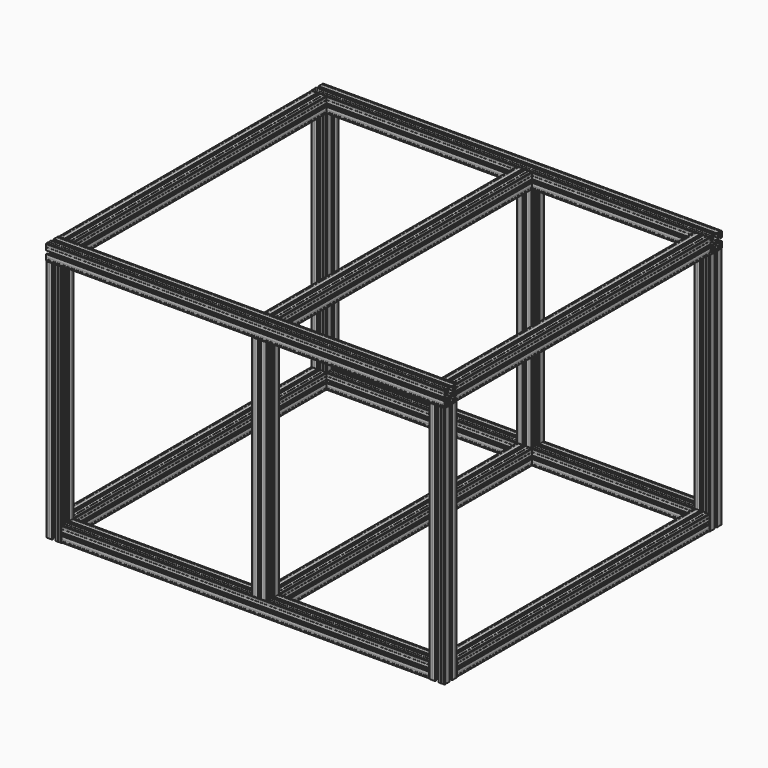
from build123d import *

# Parameters (mm, degrees)
F1_DEPTH  = 470
F5_DEPTH  = 710
F9_DEPTH  = 770
F13_DEPTH = 610
F19_DEPTH = 440


with BuildPart() as f1:
    # F0 (on Top) → F1 (new body)
    with BuildSketch(Plane.XY):
        Polygon((8.00025, 3.757359), (8.00025, 5), (5.00025, 5), (5.00025, 2), (6.242891, 2), align=None)
        Polygon((5.00025, 5), (5.00025, 8), (3.757609, 8), (2.00025, 6.242641), (2.00025, 5), align=None)
        Polygon((6.242891, 8), (5.00025, 8), (5.00025, 5), (8.00025, 5), (8.00025, 6.242641), align=None)
        Polygon((2.00025, 3.757359), (2.00025, 5), (0.30025, 5), (0.30025, 3.5), (0.00025, 3.5), (0.00025, 1), (1.00025, 0), (3.50025, 0), (3.50025, 0.3), (5.00025, 0.3), (5.00025, 2), (3.757609, 2), align=None)
        Polygon((5.00025, 2), (5.00025, 5), (2.00025, 5), (2.00025, 3.757359), (3.757609, 2), align=None)
        with BuildLine():
            Line((8.452543, 20.15), (9.7231081867, 15))
            Line((9.7231081867, 15), (12.50025, 15))
            ThreePointArc((12.50025, 15), (13.232483047, 16.767766953), (15.00025, 17.5))
            Line((15.00025, 17.5), (15.00025, 20.2771418133))
            Line((15.00025, 20.2771418133), (11.85025, 19.5))
            Line((11.85025, 19.5), (11.85025, 21.547707))
            Line((11.85025, 21.547707), (9.85025, 21.547707))
            Line((9.85025, 21.547707), (9.85025, 25))
            Line((9.85025, 25), (8.00025, 25))
            Line((8.00025, 25), (8.00025, 23.757359))
            Line((8.00025, 23.757359), (6.242891, 22))
            Line((6.242891, 22), (5.00025, 22))
            Line((5.00025, 22), (5.00025, 20.15))
            Line((5.00025, 20.15), (8.452543, 20.15))
        make_face()
        Polygon((0.30025, 25), (2.00025, 25), (2.00025, 26.242641), (3.757609, 28), (5.00025, 28), (5.00025, 29.7), (3.50025, 29.7), (3.50025, 30), (1.00025, 30), (0.00025, 29), (0.00025, 26.5), (0.30025, 26.5), align=None)
        Polygon((2.50025, 20.15), (5.00025, 20.15), (5.00025, 22), (3.757609, 22), (2.00025, 23.757359), (2.00025, 25), (0.30025, 25), (0.30025, 23.5), (0.00025, 23.5), (0.00025, 18.15), (2.50025, 18.15), align=None)
        with BuildLine():
            Line((12.50025, 15), (9.7231081867, 15))
            Line((9.7231081867, 15), (10.50025, 11.85))
            Line((10.50025, 11.85), (8.452543, 11.85))
            Line((8.452543, 11.85), (8.452543, 9.85))
            Line((8.452543, 9.85), (5.00025, 9.85))
            Line((5.00025, 9.85), (5.00025, 8))
            Line((5.00025, 8), (6.242891, 8))
            Line((6.242891, 8), (8.00025, 6.242641))
            Line((8.00025, 6.242641), (8.00025, 5))
            Line((8.00025, 5), (9.85025, 5))
            Line((9.85025, 5), (9.85025, 8.452293))
            Line((9.85025, 8.452293), (15.00025, 9.7228581867))
            Line((15.00025, 9.7228581867), (15.00025, 12.5))
            ThreePointArc((15.00025, 12.5), (13.232483047, 13.232233047), (12.50025, 15))
        make_face()
        Polygon((22.00025, 5), (20.15025, 5), (20.15025, 2.5), (18.15025, 2.5), (18.15025, 0), (23.50025, 0), (23.50025, 0.3), (25.00025, 0.3), (25.00025, 2), (23.757609, 2), (22.00025, 3.757359), align=None)
        with BuildLine():
            Line((15.00025, 20.2771418133), (15.00025, 17.5))
            ThreePointArc((15.00025, 17.5), (16.768016953, 16.767766953), (17.50025, 15))
            Line((17.50025, 15), (20.2773918133, 15))
            Line((20.2773918133, 15), (19.50025, 18.15))
            Line((19.50025, 18.15), (21.547957, 18.15))
            Line((21.547957, 18.15), (21.547957, 20.15))
            Line((21.547957, 20.15), (25.00025, 20.15))
            Line((25.00025, 20.15), (25.00025, 22))
            Line((25.00025, 22), (23.757609, 22))
            Line((23.757609, 22), (22.00025, 23.757359))
            Line((22.00025, 23.757359), (22.00025, 25))
            Line((22.00025, 25), (20.15025, 25))
            Line((20.15025, 25), (20.15025, 21.547707))
            Line((20.15025, 21.547707), (15.00025, 20.2771418133))
        make_face()
        Polygon((25.00025, 5), (25.00025, 8), (23.757609, 8), (22.00025, 6.242641), (22.00025, 5), align=None)
        with BuildLine():
            ThreePointArc((17.50025, 15), (16.768016953, 13.232233047), (15.00025, 12.5))
            Line((15.00025, 12.5), (15.00025, 9.7228581867))
            Line((15.00025, 9.7228581867), (18.15025, 10.5))
            Line((18.15025, 10.5), (18.15025, 8.452293))
            Line((18.15025, 8.452293), (20.15025, 8.452293))
            Line((20.15025, 8.452293), (20.15025, 5))
            Line((20.15025, 5), (22.00025, 5))
            Line((22.00025, 5), (22.00025, 6.242641))
            Line((22.00025, 6.242641), (23.757609, 8))
            Line((23.757609, 8), (25.00025, 8))
            Line((25.00025, 8), (25.00025, 9.85))
            Line((25.00025, 9.85), (21.547957, 9.85))
            Line((21.547957, 9.85), (20.2773918133, 15))
            Line((20.2773918133, 15), (17.50025, 15))
        make_face()
        Polygon((25.00025, 2), (25.00025, 5), (22.00025, 5), (22.00025, 3.757359), (23.757609, 2), align=None)
        Polygon((26.242891, 8), (25.00025, 8), (25.00025, 5), (28.00025, 5), (28.00025, 6.242641), align=None)
        Polygon((28.00025, 5), (25.00025, 5), (25.00025, 2), (26.242891, 2), (28.00025, 3.757359), align=None)
        Polygon((3.757609, 22), (5.00025, 22), (5.00025, 25), (2.00025, 25), (2.00025, 23.757359), align=None)
        Polygon((5.00025, 25), (5.00025, 22), (6.242891, 22), (8.00025, 23.757359), (8.00025, 25), align=None)
        Polygon((2.00025, 25), (5.00025, 25), (5.00025, 28), (3.757609, 28), (2.00025, 26.242641), align=None)
        with BuildLine():
            ThreePointArc((15.00025, 17.5), (13.232483047, 16.767766953), (12.50025, 15))
            Line((12.50025, 15), (15.00025, 15))
            Line((15.00025, 15), (15.00025, 17.5))
        make_face()
        with BuildLine():
            Line((15.00025, 15), (12.50025, 15))
            ThreePointArc((12.50025, 15), (13.232483047, 13.232233047), (15.00025, 12.5))
            Line((15.00025, 12.5), (15.00025, 15))
        make_face()
        with BuildLine():
            Line((15.00025, 17.5), (15.00025, 15))
            Line((15.00025, 15), (17.50025, 15))
            ThreePointArc((17.50025, 15), (16.768016953, 16.767766953), (15.00025, 17.5))
        make_face()
        with BuildLine():
            Line((17.50025, 15), (15.00025, 15))
            Line((15.00025, 15), (15.00025, 12.5))
            ThreePointArc((15.00025, 12.5), (16.768016953, 13.232233047), (17.50025, 15))
        make_face()
        Polygon((20.15025, 27.5), (20.15025, 25), (22.00025, 25), (22.00025, 26.242641), (23.757609, 28), (25.00025, 28), (25.00025, 29.7), (23.50025, 29.7), (23.50025, 30), (18.15025, 30), (18.15025, 27.5), align=None)
        Polygon((22.00025, 26.242641), (22.00025, 25), (25.00025, 25), (25.00025, 28), (23.757609, 28), align=None)
        Polygon((25.00025, 25), (22.00025, 25), (22.00025, 23.757359), (23.757609, 22), (25.00025, 22), align=None)
        Polygon((25.00025, 28), (25.00025, 25), (28.00025, 25), (28.00025, 26.242641), (26.242891, 28), align=None)
        Polygon((28.00025, 25), (25.00025, 25), (25.00025, 22), (26.242891, 22), (28.00025, 23.757359), align=None)
        Polygon((28.00025, 26.242641), (28.00025, 25), (29.70025, 25), (29.70025, 26.5), (30.00025, 26.5), (30.00025, 29), (29.00025, 30), (26.50025, 30), (26.50025, 29.7), (25.00025, 29.7), (25.00025, 28), (26.242891, 28), align=None)
        Polygon((25.00025, 22), (25.00025, 20.15), (27.50025, 20.15), (27.50025, 18.15), (30.00025, 18.15), (30.00025, 23.5), (29.70025, 23.5), (29.70025, 25), (28.00025, 25), (28.00025, 23.757359), (26.242891, 22), align=None)
        Polygon((8.00025, 26.242641), (8.00025, 25), (9.85025, 25), (9.85025, 27.5), (11.85025, 27.5), (11.85025, 30), (6.50025, 30), (6.50025, 29.7), (5.00025, 29.7), (5.00025, 28), (6.242891, 28), align=None)
        Polygon((5.00025, 28), (5.00025, 25), (8.00025, 25), (8.00025, 26.242641), (6.242891, 28), align=None)
        Polygon((27.50025, 9.85), (25.00025, 9.85), (25.00025, 8), (26.242891, 8), (28.00025, 6.242641), (28.00025, 5), (29.70025, 5), (29.70025, 6.5), (30.00025, 6.5), (30.00025, 11.85), (27.50025, 11.85), align=None)
        Polygon((29.70025, 5), (28.00025, 5), (28.00025, 3.757359), (26.242891, 2), (25.00025, 2), (25.00025, 0.3), (26.50025, 0.3), (26.50025, 0), (29.00025, 0), (30.00025, 1), (30.00025, 3.5), (29.70025, 3.5), align=None)
        Polygon((5.00025, 8), (5.00025, 9.85), (2.50025, 9.85), (2.50025, 11.85), (0.00025, 11.85), (0.00025, 6.5), (0.30025, 6.5), (0.30025, 5), (2.00025, 5), (2.00025, 6.242641), (3.757609, 8), align=None)
        Polygon((9.85025, 2.5), (9.85025, 5), (8.00025, 5), (8.00025, 3.757359), (6.242891, 2), (5.00025, 2), (5.00025, 0.3), (6.50025, 0.3), (6.50025, 0), (11.85025, 0), (11.85025, 2.5), align=None)
    extrude(amount=F1_DEPTH)


with BuildPart() as f2_1:
    # F2: copy of F1
    add(f1.part.moved(Location((0, 640, 0))))


with BuildPart() as f3_1:
    # F3: copy of F1
    add(f1.part.moved(Location((-740, 0, 0))))


with BuildPart() as f3_2:
    # F3: copy of F2_1
    add(f2_1.part.moved(Location((-740, 0, 0))))


with BuildPart() as f5:
    # F4 (on Right) → F5 (new body)
    with BuildSketch(Plane.YZ):
        with BuildLine():
            Line((8.452543, 20.45), (9.7231081867, 15.3))
            Line((9.7231081867, 15.3), (12.50025, 15.3))
            ThreePointArc((12.50025, 15.3), (13.232483047, 17.067766953), (15.00025, 17.8))
            Line((15.00025, 17.8), (15.00025, 20.5771418133))
            Line((15.00025, 20.5771418133), (11.85025, 19.8))
            Line((11.85025, 19.8), (11.85025, 21.847707))
            Line((11.85025, 21.847707), (9.85025, 21.847707))
            Line((9.85025, 21.847707), (9.85025, 25.3))
            Line((9.85025, 25.3), (8.00025, 25.3))
            Line((8.00025, 25.3), (8.00025, 24.057359))
            Line((8.00025, 24.057359), (6.242891, 22.3))
            Line((6.242891, 22.3), (5.00025, 22.3))
            Line((5.00025, 22.3), (5.00025, 20.45))
            Line((5.00025, 20.45), (8.452543, 20.45))
        make_face()
        with BuildLine():
            Line((12.50025, 15.3), (9.7231081867, 15.3))
            Line((9.7231081867, 15.3), (10.50025, 12.15))
            Line((10.50025, 12.15), (8.452543, 12.15))
            Line((8.452543, 12.15), (8.452543, 10.15))
            Line((8.452543, 10.15), (5.00025, 10.15))
            Line((5.00025, 10.15), (5.00025, 8.3))
            Line((5.00025, 8.3), (6.242891, 8.3))
            Line((6.242891, 8.3), (8.00025, 6.542641))
            Line((8.00025, 6.542641), (8.00025, 5.3))
            Line((8.00025, 5.3), (9.85025, 5.3))
            Line((9.85025, 5.3), (9.85025, 8.752293))
            Line((9.85025, 8.752293), (15.00025, 10.0228581867))
            Line((15.00025, 10.0228581867), (15.00025, 12.8))
            ThreePointArc((15.00025, 12.8), (13.232483047, 13.532233047), (12.50025, 15.3))
        make_face()
        with BuildLine():
            Line((15.00025, 20.5771418133), (15.00025, 17.8))
            ThreePointArc((15.00025, 17.8), (16.768016953, 17.067766953), (17.50025, 15.3))
            Line((17.50025, 15.3), (20.2773918133, 15.3))
            Line((20.2773918133, 15.3), (19.50025, 18.45))
            Line((19.50025, 18.45), (21.547957, 18.45))
            Line((21.547957, 18.45), (21.547957, 20.45))
            Line((21.547957, 20.45), (25.00025, 20.45))
            Line((25.00025, 20.45), (25.00025, 22.3))
            Line((25.00025, 22.3), (23.757609, 22.3))
            Line((23.757609, 22.3), (22.00025, 24.057359))
            Line((22.00025, 24.057359), (22.00025, 25.3))
            Line((22.00025, 25.3), (20.15025, 25.3))
            Line((20.15025, 25.3), (20.15025, 21.847707))
            Line((20.15025, 21.847707), (15.00025, 20.5771418133))
        make_face()
        with BuildLine():
            ThreePointArc((17.50025, 15.3), (16.768016953, 13.532233047), (15.00025, 12.8))
            Line((15.00025, 12.8), (15.00025, 10.0228581867))
            Line((15.00025, 10.0228581867), (18.15025, 10.8))
            Line((18.15025, 10.8), (18.15025, 8.752293))
            Line((18.15025, 8.752293), (20.15025, 8.752293))
            Line((20.15025, 8.752293), (20.15025, 5.3))
            Line((20.15025, 5.3), (22.00025, 5.3))
            Line((22.00025, 5.3), (22.00025, 6.542641))
            Line((22.00025, 6.542641), (23.757609, 8.3))
            Line((23.757609, 8.3), (25.00025, 8.3))
            Line((25.00025, 8.3), (25.00025, 10.15))
            Line((25.00025, 10.15), (21.547957, 10.15))
            Line((21.547957, 10.15), (20.2773918133, 15.3))
            Line((20.2773918133, 15.3), (17.50025, 15.3))
        make_face()
        Polygon((2.50025, 20.45), (5.00025, 20.45), (5.00025, 22.3), (3.757609, 22.3), (2.00025, 24.057359), (2.00025, 25.3), (0.30025, 25.3), (0.30025, 23.8), (0.00025, 23.8), (0.00025, 18.45), (2.50025, 18.45), align=None)
        Polygon((5.00025, 8.3), (5.00025, 10.15), (2.50025, 10.15), (2.50025, 12.15), (0.00025, 12.15), (0.00025, 6.8), (0.30025, 6.8), (0.30025, 5.3), (2.00025, 5.3), (2.00025, 6.542641), (3.757609, 8.3), align=None)
        Polygon((20.15025, 27.8), (20.15025, 25.3), (22.00025, 25.3), (22.00025, 26.542641), (23.757609, 28.3), (25.00025, 28.3), (25.00025, 30), (23.50025, 30), (23.50025, 30.3), (18.15025, 30.3), (18.15025, 27.8), align=None)
        Polygon((9.85025, 2.8), (9.85025, 5.3), (8.00025, 5.3), (8.00025, 4.057359), (6.242891, 2.3), (5.00025, 2.3), (5.00025, 0.6), (6.50025, 0.6), (6.50025, 0.3), (11.85025, 0.3), (11.85025, 2.8), align=None)
        Polygon((8.00025, 26.542641), (8.00025, 25.3), (9.85025, 25.3), (9.85025, 27.8), (11.85025, 27.8), (11.85025, 30.3), (6.50025, 30.3), (6.50025, 30), (5.00025, 30), (5.00025, 28.3), (6.242891, 28.3), align=None)
        Polygon((0.30025, 25.3), (2.00025, 25.3), (2.00025, 26.542641), (3.757609, 28.3), (5.00025, 28.3), (5.00025, 30), (3.50025, 30), (3.50025, 30.3), (1.00025, 30.3), (0.00025, 29.3), (0.00025, 26.8), (0.30025, 26.8), align=None)
        Polygon((27.50025, 10.15), (25.00025, 10.15), (25.00025, 8.3), (26.242891, 8.3), (28.00025, 6.542641), (28.00025, 5.3), (29.70025, 5.3), (29.70025, 6.8), (30.00025, 6.8), (30.00025, 12.15), (27.50025, 12.15), align=None)
        Polygon((22.00025, 5.3), (20.15025, 5.3), (20.15025, 2.8), (18.15025, 2.8), (18.15025, 0.3), (23.50025, 0.3), (23.50025, 0.6), (25.00025, 0.6), (25.00025, 2.3), (23.757609, 2.3), (22.00025, 4.057359), align=None)
        Polygon((2.00025, 4.057359), (2.00025, 5.3), (0.30025, 5.3), (0.30025, 3.8), (0.00025, 3.8), (0.00025, 1.3), (1.00025, 0.3), (3.50025, 0.3), (3.50025, 0.6), (5.00025, 0.6), (5.00025, 2.3), (3.757609, 2.3), align=None)
        Polygon((25.00025, 22.3), (25.00025, 20.45), (27.50025, 20.45), (27.50025, 18.45), (30.00025, 18.45), (30.00025, 23.8), (29.70025, 23.8), (29.70025, 25.3), (28.00025, 25.3), (28.00025, 24.057359), (26.242891, 22.3), align=None)
        Polygon((28.00025, 26.542641), (28.00025, 25.3), (29.70025, 25.3), (29.70025, 26.8), (30.00025, 26.8), (30.00025, 29.3), (29.00025, 30.3), (26.50025, 30.3), (26.50025, 30), (25.00025, 30), (25.00025, 28.3), (26.242891, 28.3), align=None)
        Polygon((29.70025, 5.3), (28.00025, 5.3), (28.00025, 4.057359), (26.242891, 2.3), (25.00025, 2.3), (25.00025, 0.6), (26.50025, 0.6), (26.50025, 0.3), (29.00025, 0.3), (30.00025, 1.3), (30.00025, 3.8), (29.70025, 3.8), align=None)
    extrude(amount=-F5_DEPTH)


with BuildPart() as f6_1:
    # F6: copy of F5
    add(f5.part.moved(Location((0, 640, 0))))


with BuildPart() as f9:
    # F8 (on offset) → F9 (new body)
    with BuildSketch(Plane.YZ.offset(30)):
        with BuildLine():
            Line((8.452543, 490.45), (9.7231081867, 485.3))
            Line((9.7231081867, 485.3), (12.50025, 485.3))
            ThreePointArc((12.50025, 485.3), (13.232483047, 487.067766953), (15.00025, 487.8))
            Line((15.00025, 487.8), (15.00025, 490.5771418133))
            Line((15.00025, 490.5771418133), (11.85025, 489.8))
            Line((11.85025, 489.8), (11.85025, 491.847707))
            Line((11.85025, 491.847707), (9.85025, 491.847707))
            Line((9.85025, 491.847707), (9.85025, 495.3))
            Line((9.85025, 495.3), (8.00025, 495.3))
            Line((8.00025, 495.3), (8.00025, 494.057359))
            Line((8.00025, 494.057359), (6.242891, 492.3))
            Line((6.242891, 492.3), (5.00025, 492.3))
            Line((5.00025, 492.3), (5.00025, 490.45))
            Line((5.00025, 490.45), (8.452543, 490.45))
        make_face()
        with BuildLine():
            Line((12.50025, 485.3), (9.7231081867, 485.3))
            Line((9.7231081867, 485.3), (10.50025, 482.15))
            Line((10.50025, 482.15), (8.452543, 482.15))
            Line((8.452543, 482.15), (8.452543, 480.15))
            Line((8.452543, 480.15), (5.00025, 480.15))
            Line((5.00025, 480.15), (5.00025, 478.3))
            Line((5.00025, 478.3), (6.242891, 478.3))
            Line((6.242891, 478.3), (8.00025, 476.542641))
            Line((8.00025, 476.542641), (8.00025, 475.3))
            Line((8.00025, 475.3), (9.85025, 475.3))
            Line((9.85025, 475.3), (9.85025, 478.752293))
            Line((9.85025, 478.752293), (15.00025, 480.0228581867))
            Line((15.00025, 480.0228581867), (15.00025, 482.8))
            ThreePointArc((15.00025, 482.8), (13.232483047, 483.532233047), (12.50025, 485.3))
        make_face()
        with BuildLine():
            Line((15.00025, 490.5771418133), (15.00025, 487.8))
            ThreePointArc((15.00025, 487.8), (16.768016953, 487.067766953), (17.50025, 485.3))
            Line((17.50025, 485.3), (20.2773918133, 485.3))
            Line((20.2773918133, 485.3), (19.50025, 488.45))
            Line((19.50025, 488.45), (21.547957, 488.45))
            Line((21.547957, 488.45), (21.547957, 490.45))
            Line((21.547957, 490.45), (25.00025, 490.45))
            Line((25.00025, 490.45), (25.00025, 492.3))
            Line((25.00025, 492.3), (23.757609, 492.3))
            Line((23.757609, 492.3), (22.00025, 494.057359))
            Line((22.00025, 494.057359), (22.00025, 495.3))
            Line((22.00025, 495.3), (20.15025, 495.3))
            Line((20.15025, 495.3), (20.15025, 491.847707))
            Line((20.15025, 491.847707), (15.00025, 490.5771418133))
        make_face()
        with BuildLine():
            ThreePointArc((17.50025, 485.3), (16.768016953, 483.532233047), (15.00025, 482.8))
            Line((15.00025, 482.8), (15.00025, 480.0228581867))
            Line((15.00025, 480.0228581867), (18.15025, 480.8))
            Line((18.15025, 480.8), (18.15025, 478.752293))
            Line((18.15025, 478.752293), (20.15025, 478.752293))
            Line((20.15025, 478.752293), (20.15025, 475.3))
            Line((20.15025, 475.3), (22.00025, 475.3))
            Line((22.00025, 475.3), (22.00025, 476.542641))
            Line((22.00025, 476.542641), (23.757609, 478.3))
            Line((23.757609, 478.3), (25.00025, 478.3))
            Line((25.00025, 478.3), (25.00025, 480.15))
            Line((25.00025, 480.15), (21.547957, 480.15))
            Line((21.547957, 480.15), (20.2773918133, 485.3))
            Line((20.2773918133, 485.3), (17.50025, 485.3))
        make_face()
        Polygon((2.50025, 490.45), (5.00025, 490.45), (5.00025, 492.3), (3.757609, 492.3), (2.00025, 494.057359), (2.00025, 495.3), (0.30025, 495.3), (0.30025, 493.8), (0.00025, 493.8), (0.00025, 488.45), (2.50025, 488.45), align=None)
        Polygon((5.00025, 478.3), (5.00025, 480.15), (2.50025, 480.15), (2.50025, 482.15), (0.00025, 482.15), (0.00025, 476.8), (0.30025, 476.8), (0.30025, 475.3), (2.00025, 475.3), (2.00025, 476.542641), (3.757609, 478.3), align=None)
        Polygon((20.15025, 497.8), (20.15025, 495.3), (22.00025, 495.3), (22.00025, 496.542641), (23.757609, 498.3), (25.00025, 498.3), (25.00025, 500), (23.50025, 500), (23.50025, 500.3), (18.15025, 500.3), (18.15025, 497.8), align=None)
        Polygon((9.85025, 472.8), (9.85025, 475.3), (8.00025, 475.3), (8.00025, 474.057359), (6.242891, 472.3), (5.00025, 472.3), (5.00025, 470.6), (6.50025, 470.6), (6.50025, 470.3), (11.85025, 470.3), (11.85025, 472.8), align=None)
        Polygon((8.00025, 496.542641), (8.00025, 495.3), (9.85025, 495.3), (9.85025, 497.8), (11.85025, 497.8), (11.85025, 500.3), (6.50025, 500.3), (6.50025, 500), (5.00025, 500), (5.00025, 498.3), (6.242891, 498.3), align=None)
        Polygon((0.30025, 495.3), (2.00025, 495.3), (2.00025, 496.542641), (3.757609, 498.3), (5.00025, 498.3), (5.00025, 500), (3.50025, 500), (3.50025, 500.3), (1.00025, 500.3), (0.00025, 499.3), (0.00025, 496.8), (0.30025, 496.8), align=None)
        Polygon((27.50025, 480.15), (25.00025, 480.15), (25.00025, 478.3), (26.242891, 478.3), (28.00025, 476.542641), (28.00025, 475.3), (29.70025, 475.3), (29.70025, 476.8), (30.00025, 476.8), (30.00025, 482.15), (27.50025, 482.15), align=None)
        Polygon((22.00025, 475.3), (20.15025, 475.3), (20.15025, 472.8), (18.15025, 472.8), (18.15025, 470.3), (23.50025, 470.3), (23.50025, 470.6), (25.00025, 470.6), (25.00025, 472.3), (23.757609, 472.3), (22.00025, 474.057359), align=None)
        Polygon((2.00025, 474.057359), (2.00025, 475.3), (0.30025, 475.3), (0.30025, 473.8), (0.00025, 473.8), (0.00025, 471.3), (1.00025, 470.3), (3.50025, 470.3), (3.50025, 470.6), (5.00025, 470.6), (5.00025, 472.3), (3.757609, 472.3), align=None)
        Polygon((25.00025, 492.3), (25.00025, 490.45), (27.50025, 490.45), (27.50025, 488.45), (30.00025, 488.45), (30.00025, 493.8), (29.70025, 493.8), (29.70025, 495.3), (28.00025, 495.3), (28.00025, 494.057359), (26.242891, 492.3), align=None)
        Polygon((28.00025, 496.542641), (28.00025, 495.3), (29.70025, 495.3), (29.70025, 496.8), (30.00025, 496.8), (30.00025, 499.3), (29.00025, 500.3), (26.50025, 500.3), (26.50025, 500), (25.00025, 500), (25.00025, 498.3), (26.242891, 498.3), align=None)
        Polygon((29.70025, 475.3), (28.00025, 475.3), (28.00025, 474.057359), (26.242891, 472.3), (25.00025, 472.3), (25.00025, 470.6), (26.50025, 470.6), (26.50025, 470.3), (29.00025, 470.3), (30.00025, 471.3), (30.00025, 473.8), (29.70025, 473.8), align=None)
    extrude(amount=-F9_DEPTH)


with BuildPart() as f10_1:
    # F10: copy of F9
    add(f9.part.moved(Location((0, 640, 0))))


with BuildPart() as f13:
    # F12 (on offset) → F13 (new body)
    with BuildSketch(Plane.XZ.offset(-30)):
        with BuildLine():
            Line((8.452543, 20.45), (9.7231081867, 15.3))
            Line((9.7231081867, 15.3), (12.50025, 15.3))
            ThreePointArc((12.50025, 15.3), (13.232483047, 17.067766953), (15.00025, 17.8))
            Line((15.00025, 17.8), (15.00025, 20.5771418133))
            Line((15.00025, 20.5771418133), (11.85025, 19.8))
            Line((11.85025, 19.8), (11.85025, 21.847707))
            Line((11.85025, 21.847707), (9.85025, 21.847707))
            Line((9.85025, 21.847707), (9.85025, 25.3))
            Line((9.85025, 25.3), (8.00025, 25.3))
            Line((8.00025, 25.3), (8.00025, 24.057359))
            Line((8.00025, 24.057359), (6.242891, 22.3))
            Line((6.242891, 22.3), (5.00025, 22.3))
            Line((5.00025, 22.3), (5.00025, 20.45))
            Line((5.00025, 20.45), (8.452543, 20.45))
        make_face()
        with BuildLine():
            Line((12.50025, 15.3), (9.7231081867, 15.3))
            Line((9.7231081867, 15.3), (10.50025, 12.15))
            Line((10.50025, 12.15), (8.452543, 12.15))
            Line((8.452543, 12.15), (8.452543, 10.15))
            Line((8.452543, 10.15), (5.00025, 10.15))
            Line((5.00025, 10.15), (5.00025, 8.3))
            Line((5.00025, 8.3), (6.242891, 8.3))
            Line((6.242891, 8.3), (8.00025, 6.542641))
            Line((8.00025, 6.542641), (8.00025, 5.3))
            Line((8.00025, 5.3), (9.85025, 5.3))
            Line((9.85025, 5.3), (9.85025, 8.752293))
            Line((9.85025, 8.752293), (15.00025, 10.0228581867))
            Line((15.00025, 10.0228581867), (15.00025, 12.8))
            ThreePointArc((15.00025, 12.8), (13.232483047, 13.532233047), (12.50025, 15.3))
        make_face()
        with BuildLine():
            Line((15.00025, 20.5771418133), (15.00025, 17.8))
            ThreePointArc((15.00025, 17.8), (16.768016953, 17.067766953), (17.50025, 15.3))
            Line((17.50025, 15.3), (20.2773918133, 15.3))
            Line((20.2773918133, 15.3), (19.50025, 18.45))
            Line((19.50025, 18.45), (21.547957, 18.45))
            Line((21.547957, 18.45), (21.547957, 20.45))
            Line((21.547957, 20.45), (25.00025, 20.45))
            Line((25.00025, 20.45), (25.00025, 22.3))
            Line((25.00025, 22.3), (23.757609, 22.3))
            Line((23.757609, 22.3), (22.00025, 24.057359))
            Line((22.00025, 24.057359), (22.00025, 25.3))
            Line((22.00025, 25.3), (20.15025, 25.3))
            Line((20.15025, 25.3), (20.15025, 21.847707))
            Line((20.15025, 21.847707), (15.00025, 20.5771418133))
        make_face()
        with BuildLine():
            ThreePointArc((17.50025, 15.3), (16.768016953, 13.532233047), (15.00025, 12.8))
            Line((15.00025, 12.8), (15.00025, 10.0228581867))
            Line((15.00025, 10.0228581867), (18.15025, 10.8))
            Line((18.15025, 10.8), (18.15025, 8.752293))
            Line((18.15025, 8.752293), (20.15025, 8.752293))
            Line((20.15025, 8.752293), (20.15025, 5.3))
            Line((20.15025, 5.3), (22.00025, 5.3))
            Line((22.00025, 5.3), (22.00025, 6.542641))
            Line((22.00025, 6.542641), (23.757609, 8.3))
            Line((23.757609, 8.3), (25.00025, 8.3))
            Line((25.00025, 8.3), (25.00025, 10.15))
            Line((25.00025, 10.15), (21.547957, 10.15))
            Line((21.547957, 10.15), (20.2773918133, 15.3))
            Line((20.2773918133, 15.3), (17.50025, 15.3))
        make_face()
        Polygon((2.50025, 20.45), (5.00025, 20.45), (5.00025, 22.3), (3.757609, 22.3), (2.00025, 24.057359), (2.00025, 25.3), (0.30025, 25.3), (0.30025, 23.8), (0.00025, 23.8), (0.00025, 18.45), (2.50025, 18.45), align=None)
        Polygon((5.00025, 8.3), (5.00025, 10.15), (2.50025, 10.15), (2.50025, 12.15), (0.00025, 12.15), (0.00025, 6.8), (0.30025, 6.8), (0.30025, 5.3), (2.00025, 5.3), (2.00025, 6.542641), (3.757609, 8.3), align=None)
        Polygon((20.15025, 27.8), (20.15025, 25.3), (22.00025, 25.3), (22.00025, 26.542641), (23.757609, 28.3), (25.00025, 28.3), (25.00025, 30), (23.50025, 30), (23.50025, 30.3), (18.15025, 30.3), (18.15025, 27.8), align=None)
        Polygon((9.85025, 2.8), (9.85025, 5.3), (8.00025, 5.3), (8.00025, 4.057359), (6.242891, 2.3), (5.00025, 2.3), (5.00025, 0.6), (6.50025, 0.6), (6.50025, 0.3), (11.85025, 0.3), (11.85025, 2.8), align=None)
        Polygon((8.00025, 26.542641), (8.00025, 25.3), (9.85025, 25.3), (9.85025, 27.8), (11.85025, 27.8), (11.85025, 30.3), (6.50025, 30.3), (6.50025, 30), (5.00025, 30), (5.00025, 28.3), (6.242891, 28.3), align=None)
        Polygon((0.30025, 25.3), (2.00025, 25.3), (2.00025, 26.542641), (3.757609, 28.3), (5.00025, 28.3), (5.00025, 30), (3.50025, 30), (3.50025, 30.3), (1.00025, 30.3), (0.00025, 29.3), (0.00025, 26.8), (0.30025, 26.8), align=None)
        Polygon((27.50025, 10.15), (25.00025, 10.15), (25.00025, 8.3), (26.242891, 8.3), (28.00025, 6.542641), (28.00025, 5.3), (29.70025, 5.3), (29.70025, 6.8), (30.00025, 6.8), (30.00025, 12.15), (27.50025, 12.15), align=None)
        Polygon((22.00025, 5.3), (20.15025, 5.3), (20.15025, 2.8), (18.15025, 2.8), (18.15025, 0.3), (23.50025, 0.3), (23.50025, 0.6), (25.00025, 0.6), (25.00025, 2.3), (23.757609, 2.3), (22.00025, 4.057359), align=None)
        Polygon((2.00025, 4.057359), (2.00025, 5.3), (0.30025, 5.3), (0.30025, 3.8), (0.00025, 3.8), (0.00025, 1.3), (1.00025, 0.3), (3.50025, 0.3), (3.50025, 0.6), (5.00025, 0.6), (5.00025, 2.3), (3.757609, 2.3), align=None)
        Polygon((25.00025, 22.3), (25.00025, 20.45), (27.50025, 20.45), (27.50025, 18.45), (30.00025, 18.45), (30.00025, 23.8), (29.70025, 23.8), (29.70025, 25.3), (28.00025, 25.3), (28.00025, 24.057359), (26.242891, 22.3), align=None)
        Polygon((28.00025, 26.542641), (28.00025, 25.3), (29.70025, 25.3), (29.70025, 26.8), (30.00025, 26.8), (30.00025, 29.3), (29.00025, 30.3), (26.50025, 30.3), (26.50025, 30), (25.00025, 30), (25.00025, 28.3), (26.242891, 28.3), align=None)
        Polygon((29.70025, 5.3), (28.00025, 5.3), (28.00025, 4.057359), (26.242891, 2.3), (25.00025, 2.3), (25.00025, 0.6), (26.50025, 0.6), (26.50025, 0.3), (29.00025, 0.3), (30.00025, 1.3), (30.00025, 3.8), (29.70025, 3.8), align=None)
    extrude(amount=-F13_DEPTH)


with BuildPart() as f14_1:
    # F14: copy of F13
    add(f13.part.moved(Location((0, 0, 470))))


with BuildPart() as f15_1:
    # F15: copy of F13
    add(f13.part.moved(Location((-740, 0, 0))))


with BuildPart() as f15_2:
    # F15: copy of F14_1
    add(f14_1.part.moved(Location((-740, 0, 0))))


with BuildPart() as f16_1:
    # F16: copy of F13
    add(f13.part.moved(Location((-343, 0, 0))))


with BuildPart() as f16_2:
    # F16: copy of F14_1
    add(f14_1.part.moved(Location((-343, 0, 0))))


with BuildPart() as f19:
    # F18 (on offset) → F19 (new body)
    with BuildSketch(Plane.XY.offset(30)):
        with BuildLine():
            Line((-334.547457, 20.45), (-333.2768918133, 15.3))
            Line((-333.2768918133, 15.3), (-330.49975, 15.3))
            ThreePointArc((-330.49975, 15.3), (-329.767516953, 17.067766953), (-327.99975, 17.8))
            Line((-327.99975, 17.8), (-327.99975, 20.5771418133))
            Line((-327.99975, 20.5771418133), (-331.14975, 19.8))
            Line((-331.14975, 19.8), (-331.14975, 21.847707))
            Line((-331.14975, 21.847707), (-333.14975, 21.847707))
            Line((-333.14975, 21.847707), (-333.14975, 25.3))
            Line((-333.14975, 25.3), (-334.99975, 25.3))
            Line((-334.99975, 25.3), (-334.99975, 24.057359))
            Line((-334.99975, 24.057359), (-336.757109, 22.3))
            Line((-336.757109, 22.3), (-337.99975, 22.3))
            Line((-337.99975, 22.3), (-337.99975, 20.45))
            Line((-337.99975, 20.45), (-334.547457, 20.45))
        make_face()
        with BuildLine():
            Line((-330.49975, 15.3), (-333.2768918133, 15.3))
            Line((-333.2768918133, 15.3), (-332.49975, 12.15))
            Line((-332.49975, 12.15), (-334.547457, 12.15))
            Line((-334.547457, 12.15), (-334.547457, 10.15))
            Line((-334.547457, 10.15), (-337.99975, 10.15))
            Line((-337.99975, 10.15), (-337.99975, 8.3))
            Line((-337.99975, 8.3), (-336.757109, 8.3))
            Line((-336.757109, 8.3), (-334.99975, 6.542641))
            Line((-334.99975, 6.542641), (-334.99975, 5.3))
            Line((-334.99975, 5.3), (-333.14975, 5.3))
            Line((-333.14975, 5.3), (-333.14975, 8.752293))
            Line((-333.14975, 8.752293), (-327.99975, 10.0228581867))
            Line((-327.99975, 10.0228581867), (-327.99975, 12.8))
            ThreePointArc((-327.99975, 12.8), (-329.767516953, 13.532233047), (-330.49975, 15.3))
        make_face()
        with BuildLine():
            Line((-327.99975, 20.5771418133), (-327.99975, 17.8))
            ThreePointArc((-327.99975, 17.8), (-326.231983047, 17.067766953), (-325.49975, 15.3))
            Line((-325.49975, 15.3), (-322.7226081867, 15.3))
            Line((-322.7226081867, 15.3), (-323.49975, 18.45))
            Line((-323.49975, 18.45), (-321.452043, 18.45))
            Line((-321.452043, 18.45), (-321.452043, 20.45))
            Line((-321.452043, 20.45), (-317.99975, 20.45))
            Line((-317.99975, 20.45), (-317.99975, 22.3))
            Line((-317.99975, 22.3), (-319.242391, 22.3))
            Line((-319.242391, 22.3), (-320.99975, 24.057359))
            Line((-320.99975, 24.057359), (-320.99975, 25.3))
            Line((-320.99975, 25.3), (-322.84975, 25.3))
            Line((-322.84975, 25.3), (-322.84975, 21.847707))
            Line((-322.84975, 21.847707), (-327.99975, 20.5771418133))
        make_face()
        with BuildLine():
            ThreePointArc((-325.49975, 15.3), (-326.231983047, 13.532233047), (-327.99975, 12.8))
            Line((-327.99975, 12.8), (-327.99975, 10.0228581867))
            Line((-327.99975, 10.0228581867), (-324.84975, 10.8))
            Line((-324.84975, 10.8), (-324.84975, 8.752293))
            Line((-324.84975, 8.752293), (-322.84975, 8.752293))
            Line((-322.84975, 8.752293), (-322.84975, 5.3))
            Line((-322.84975, 5.3), (-320.99975, 5.3))
            Line((-320.99975, 5.3), (-320.99975, 6.542641))
            Line((-320.99975, 6.542641), (-319.242391, 8.3))
            Line((-319.242391, 8.3), (-317.99975, 8.3))
            Line((-317.99975, 8.3), (-317.99975, 10.15))
            Line((-317.99975, 10.15), (-321.452043, 10.15))
            Line((-321.452043, 10.15), (-322.7226081867, 15.3))
            Line((-322.7226081867, 15.3), (-325.49975, 15.3))
        make_face()
        Polygon((-340.49975, 20.45), (-337.99975, 20.45), (-337.99975, 22.3), (-339.242391, 22.3), (-340.99975, 24.057359), (-340.99975, 25.3), (-342.69975, 25.3), (-342.69975, 23.8), (-342.99975, 23.8), (-342.99975, 18.45), (-340.49975, 18.45), align=None)
        Polygon((-337.99975, 8.3), (-337.99975, 10.15), (-340.49975, 10.15), (-340.49975, 12.15), (-342.99975, 12.15), (-342.99975, 6.8), (-342.69975, 6.8), (-342.69975, 5.3), (-340.99975, 5.3), (-340.99975, 6.542641), (-339.242391, 8.3), align=None)
        Polygon((-322.84975, 27.8), (-322.84975, 25.3), (-320.99975, 25.3), (-320.99975, 26.542641), (-319.242391, 28.3), (-317.99975, 28.3), (-317.99975, 30), (-319.49975, 30), (-319.49975, 30.3), (-324.84975, 30.3), (-324.84975, 27.8), align=None)
        Polygon((-333.14975, 2.8), (-333.14975, 5.3), (-334.99975, 5.3), (-334.99975, 4.057359), (-336.757109, 2.3), (-337.99975, 2.3), (-337.99975, 0.6), (-336.49975, 0.6), (-336.49975, 0.3), (-331.14975, 0.3), (-331.14975, 2.8), align=None)
        Polygon((-334.99975, 26.542641), (-334.99975, 25.3), (-333.14975, 25.3), (-333.14975, 27.8), (-331.14975, 27.8), (-331.14975, 30.3), (-336.49975, 30.3), (-336.49975, 30), (-337.99975, 30), (-337.99975, 28.3), (-336.757109, 28.3), align=None)
        Polygon((-342.69975, 25.3), (-340.99975, 25.3), (-340.99975, 26.542641), (-339.242391, 28.3), (-337.99975, 28.3), (-337.99975, 30), (-339.49975, 30), (-339.49975, 30.3), (-341.99975, 30.3), (-342.99975, 29.3), (-342.99975, 26.8), (-342.69975, 26.8), align=None)
        Polygon((-315.49975, 10.15), (-317.99975, 10.15), (-317.99975, 8.3), (-316.757109, 8.3), (-314.99975, 6.542641), (-314.99975, 5.3), (-313.29975, 5.3), (-313.29975, 6.8), (-312.99975, 6.8), (-312.99975, 12.15), (-315.49975, 12.15), align=None)
        Polygon((-320.99975, 5.3), (-322.84975, 5.3), (-322.84975, 2.8), (-324.84975, 2.8), (-324.84975, 0.3), (-319.49975, 0.3), (-319.49975, 0.6), (-317.99975, 0.6), (-317.99975, 2.3), (-319.242391, 2.3), (-320.99975, 4.057359), align=None)
        Polygon((-340.99975, 4.057359), (-340.99975, 5.3), (-342.69975, 5.3), (-342.69975, 3.8), (-342.99975, 3.8), (-342.99975, 1.3), (-341.99975, 0.3), (-339.49975, 0.3), (-339.49975, 0.6), (-337.99975, 0.6), (-337.99975, 2.3), (-339.242391, 2.3), align=None)
        Polygon((-317.99975, 22.3), (-317.99975, 20.45), (-315.49975, 20.45), (-315.49975, 18.45), (-312.99975, 18.45), (-312.99975, 23.8), (-313.29975, 23.8), (-313.29975, 25.3), (-314.99975, 25.3), (-314.99975, 24.057359), (-316.757109, 22.3), align=None)
        Polygon((-314.99975, 26.542641), (-314.99975, 25.3), (-313.29975, 25.3), (-313.29975, 26.8), (-312.99975, 26.8), (-312.99975, 29.3), (-313.99975, 30.3), (-316.49975, 30.3), (-316.49975, 30), (-317.99975, 30), (-317.99975, 28.3), (-316.757109, 28.3), align=None)
        Polygon((-313.29975, 5.3), (-314.99975, 5.3), (-314.99975, 4.057359), (-316.757109, 2.3), (-317.99975, 2.3), (-317.99975, 0.6), (-316.49975, 0.6), (-316.49975, 0.3), (-313.99975, 0.3), (-312.99975, 1.3), (-312.99975, 3.8), (-313.29975, 3.8), align=None)
    extrude(amount=F19_DEPTH)


with BuildPart() as f20_1:
    # F20: copy of F19
    add(f19.part.moved(Location((0, 640, 0))))


solid = Compound([f1.part, f2_1.part, f3_1.part, f3_2.part, f5.part, f6_1.part, f9.part, f10_1.part, f13.part, f14_1.part, f15_1.part, f15_2.part, f16_1.part, f16_2.part, f19.part, f20_1.part])
